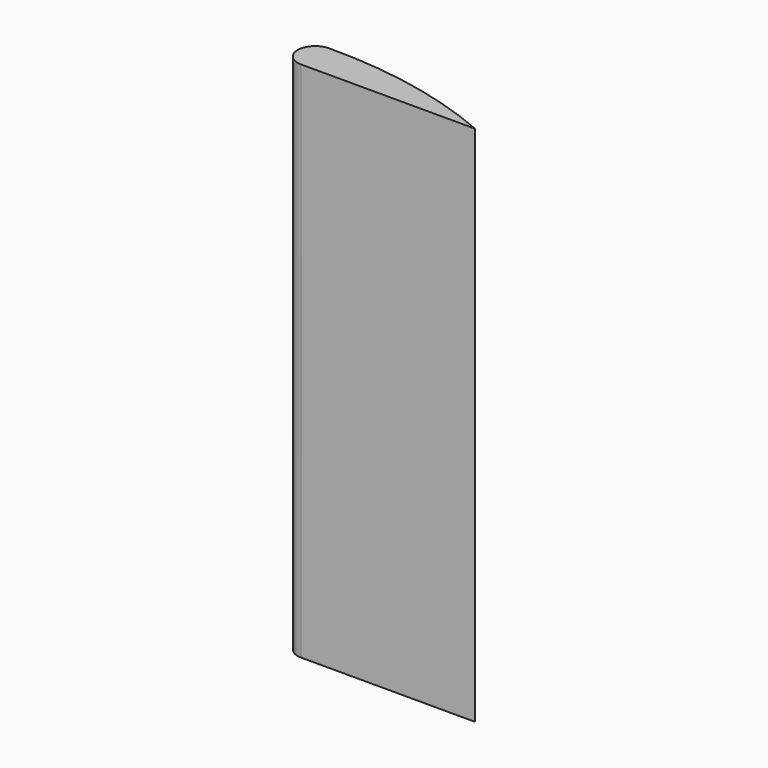
from build123d import *

# Parameters (mm, degrees)
F1_DEPTH = 120


with BuildPart() as f1:
    # F0 (on Top) → F1 (new body)
    with BuildSketch(Plane.XY):
        with BuildLine():
            ThreePointArc((0, 8.035394), (-4.017697, 4.017697), (0, 0))
            Line((0, 0), (40, 0))
            ThreePointArc((40, 0), (20.41963, 6.106606), (0, 8.035394))
        make_face()
    extrude(amount=F1_DEPTH)


solid = f1.part
